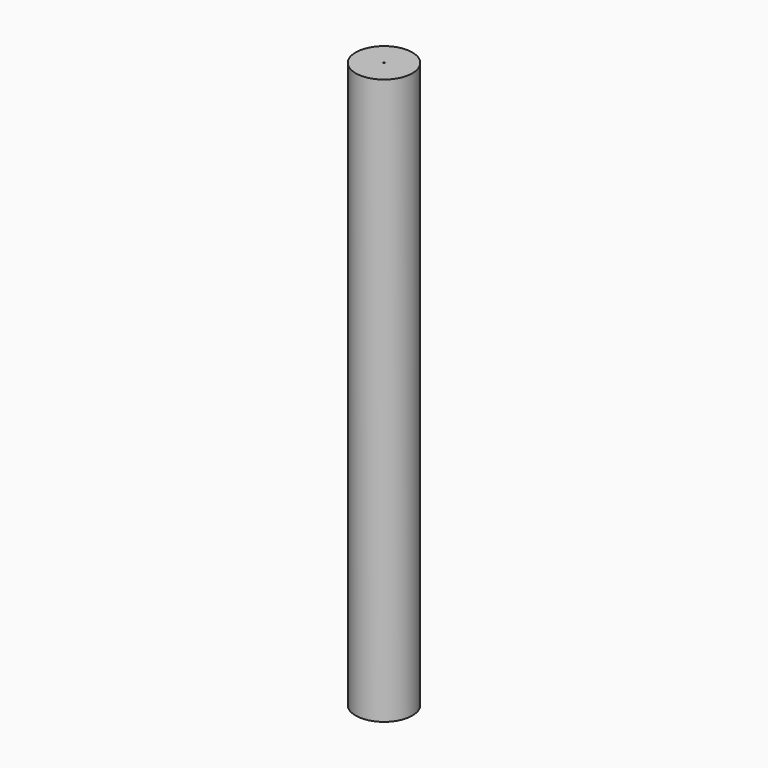
from build123d import *

# Parameters (mm, degrees)
F0_R     = 6.3603951
F1_DEPTH = 127
F2_D     = 9.525
F2_DEPTH = 114.3
F2_TIP   = 2.8615986981
F3_D     = 0.3302


with BuildPart() as f1:
    # F0 (on Top) → F1 (new body)
    with BuildSketch(Plane.XY):
        Circle(F0_R)
    extrude(amount=F1_DEPTH)

    # F2
    with Locations(Plane(origin=(0, 0, 0), x_dir=(1, 0, 0), z_dir=(0, 0, -1))):
        with Locations((0, 0)):
            Hole(F2_D / 2, depth=F2_DEPTH)
            with Locations((0, 0, -(F2_DEPTH + F2_TIP / 2))):  # 118° drill point
                Cone(0, F2_D / 2, F2_TIP, mode=Mode.SUBTRACT)

    # F3 (through all)
    with Locations(Plane(origin=(0, 0, 0), x_dir=(1, 0, 0), z_dir=(0, 0, -1))):
        with Locations((0, 0)):
            Hole(F3_D / 2)


solid = f1.part
